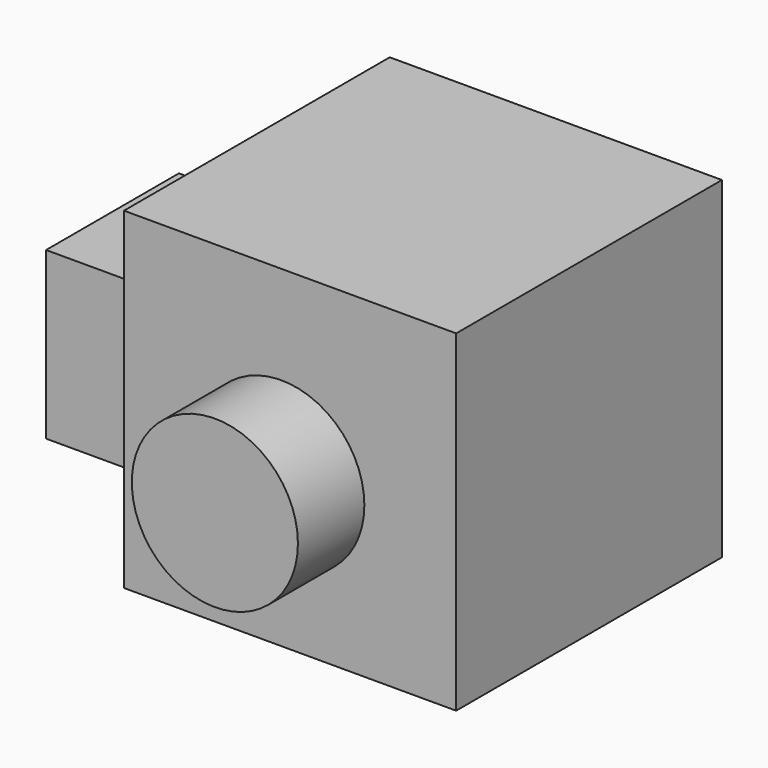
from build123d import *

# Parameters (mm, degrees)
F0_W     = 50.8
F0_H     = 50.8
F1_DEPTH = 50.8
F2_R     = 12.7
F3_DEPTH = 63.5
F4_W     = 25.4
F4_H     = 25.4
F5_DEPTH = 21.082


with BuildPart() as f1:
    # F0 (on Front) → F1 (new body)
    with BuildSketch(Plane.XZ):
        with Locations((25.4, 25.4)):
            Rectangle(F0_W, F0_H)
    extrude(amount=F1_DEPTH)

    # F2 (on Front) → F3 (join)
    with BuildSketch(Plane.XZ):
        with Locations((24.060287, 23.105513)):
            Circle(F2_R)
    extrude(amount=F3_DEPTH)

    # F4 (on Right) → F5 (join)
    with BuildSketch(Plane.YZ):
        with Locations((-26.636659, 21.289929)):
            Rectangle(F4_W, F4_H)
    extrude(amount=-F5_DEPTH)


solid = f1.part
